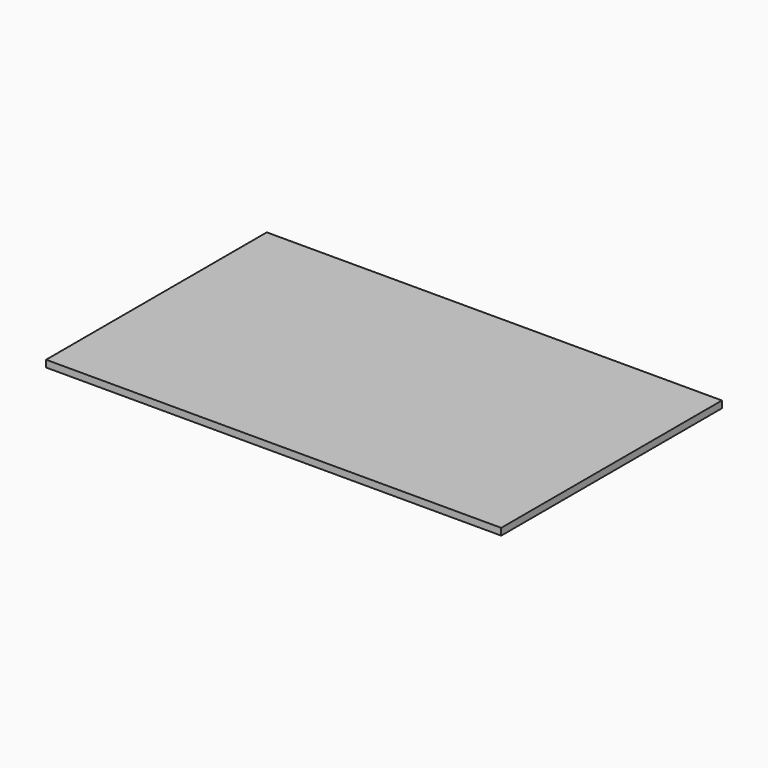
from build123d import *

# Parameters (mm, degrees)
SKETCH_W  = 1320
SKETCH_H  = 800
PAD_DEPTH = 20


with BuildPart() as part:
    # Sketch → Pad (new body)
    with BuildSketch(Plane.XY):
        Rectangle(SKETCH_W, SKETCH_H)
    extrude(amount=PAD_DEPTH)


solid = part.part
